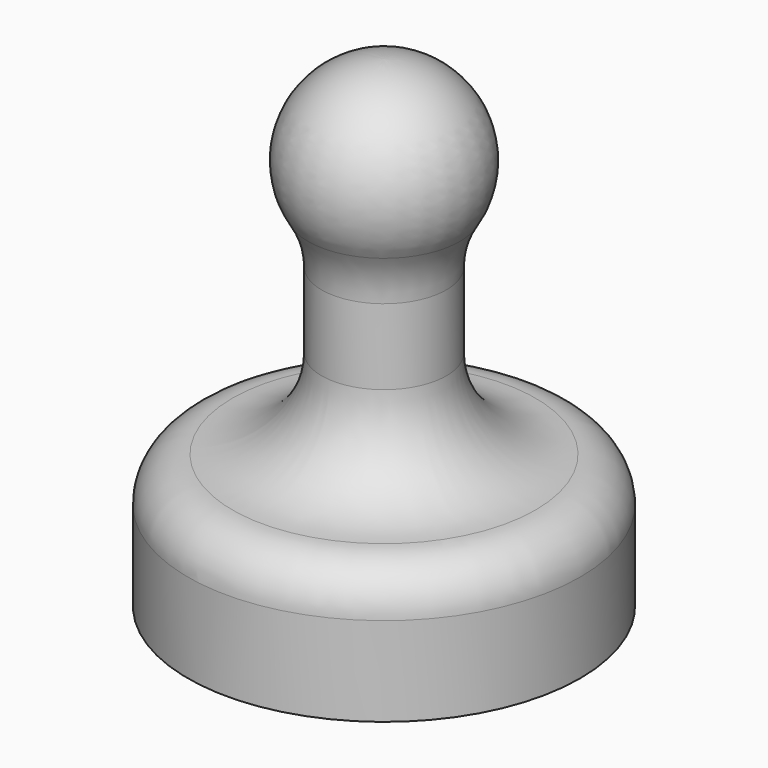
from build123d import *


with BuildPart() as f1:
    # F0 (on Front) → F1 (revolve)
    with BuildSketch(Plane.XZ):
        with BuildLine():
            Line((-5.55, 3.5), (1, 3.5))
            Line((1, 3.5), (1, 27.010888))
            ThreePointArc((1, 27.010888), (-3.368613, 24.44301), (-3.25, 19.376974))
            ThreePointArc((-3.25, 19.376974), (-2.691154, 18.112367), (-2.5, 16.743061))
            Line((-2.5, 16.743061), (-2.5, 12.5))
            ThreePointArc((-2.5, 12.5), (-3.964466, 8.964466), (-7.5, 7.5))
            ThreePointArc((-7.5, 7.5), (-9.267767, 6.767767), (-10, 5))
            Line((-10, 5), (-10, 0))
            Line((-10, 0), (-5.55, 0))
            Line((-5.55, 0), (-5.55, 3.5))
        make_face()
    revolve(axis=Axis((1, 0, 15.255444), (0, 0, 1)))


solid = f1.part
